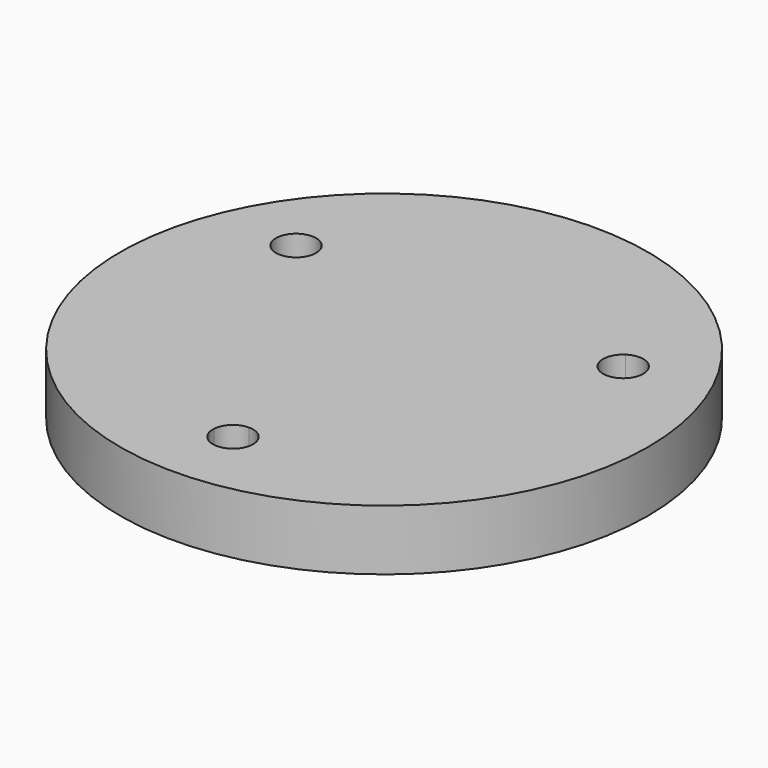
from build123d import *

# Parameters (mm, degrees)
F0_R     = 55.372
F1_DEPTH = 12.7


with BuildPart() as f1:
    # F0 (on Top) → F1 (new body)
    with BuildSketch(Plane.XY):
        Circle(F0_R)
        with BuildLine():
            ThreePointArc((36.2263255219, 16.0534954194), (38.7652763339, 8.2045552445), (39.624, 0))
            ThreePointArc((39.624, 0), (29.4694364676, -26.4879914354), (4.2104279082, -39.3996658974))
            ThreePointArc((4.2104279082, -39.3996658974), (4.2149067126, -39.5117932094), (4.2164, -39.624))
            ThreePointArc((4.2164, -39.624), (-0.1122067906, -43.8389067126), (-4.2104279082, -39.3996658974))
            ThreePointArc((-4.2104279082, -39.3996658974), (-34.3153905996, -19.812), (-36.2263255219, 16.0534954194))
            ThreePointArc((-36.2263255219, 16.0534954194), (-37.9669001121, 21.9202), (-32.0158976137, 23.3461704781))
            ThreePointArc((-32.0158976137, 23.3461704781), (0, 39.624), (32.0158976137, 23.3461704781))
            ThreePointArc((32.0158976137, 23.3461704781), (36.3256700247, 23.518319683), (38.5317905996, 19.812))
            ThreePointArc((38.5317905996, 19.812), (37.909503492, 17.6073727125), (36.2263255219, 16.0534954194))
        make_face(mode=Mode.SUBTRACT)
        with BuildLine():
            Line((0, 0), (30.663881087, 17.7038))
            ThreePointArc((30.663881087, 17.7038), (30.215062096, 20.7945146936), (32.0158976137, 23.3461704781))
            ThreePointArc((32.0158976137, 23.3461704781), (0, 39.624), (-32.0158976137, 23.3461704781))
            ThreePointArc((-32.0158976137, 23.3461704781), (-30.6090709165, 21.8222794252), (-30.0989905996, 19.812))
            ThreePointArc((-30.0989905996, 19.812), (-30.2426609456, 18.7207153782), (-30.663881087, 17.7038))
            Line((-30.663881087, 17.7038), (0, 0))
        make_face()
        with BuildLine():
            ThreePointArc((-4.2104279082, -39.3996658974), (-2.901046936, -36.5642686989), (0, -35.4076))
            Line((0, -35.4076), (0, 0))
            Line((0, 0), (-30.663881087, 17.7038))
            ThreePointArc((-30.663881087, 17.7038), (-33.116109032, 15.7697540053), (-36.2263255219, 16.0534954194))
            ThreePointArc((-36.2263255219, 16.0534954194), (-34.3153905996, -19.812), (-4.2104279082, -39.3996658974))
        make_face()
        with BuildLine():
            ThreePointArc((4.2104279082, -39.3996658974), (29.4694364676, -26.4879914354), (39.624, 0))
            ThreePointArc((39.624, 0), (38.7652763339, 8.2045552445), (36.2263255219, 16.0534954194))
            ThreePointArc((36.2263255219, 16.0534954194), (33.116109032, 15.7697540053), (30.663881087, 17.7038))
            Line((30.663881087, 17.7038), (0, 0))
            Line((0, 0), (0, -35.4076))
            ThreePointArc((0, -35.4076), (2.901046936, -36.5642686989), (4.2104279082, -39.3996658974))
        make_face()
    extrude(amount=F1_DEPTH)


solid = f1.part
